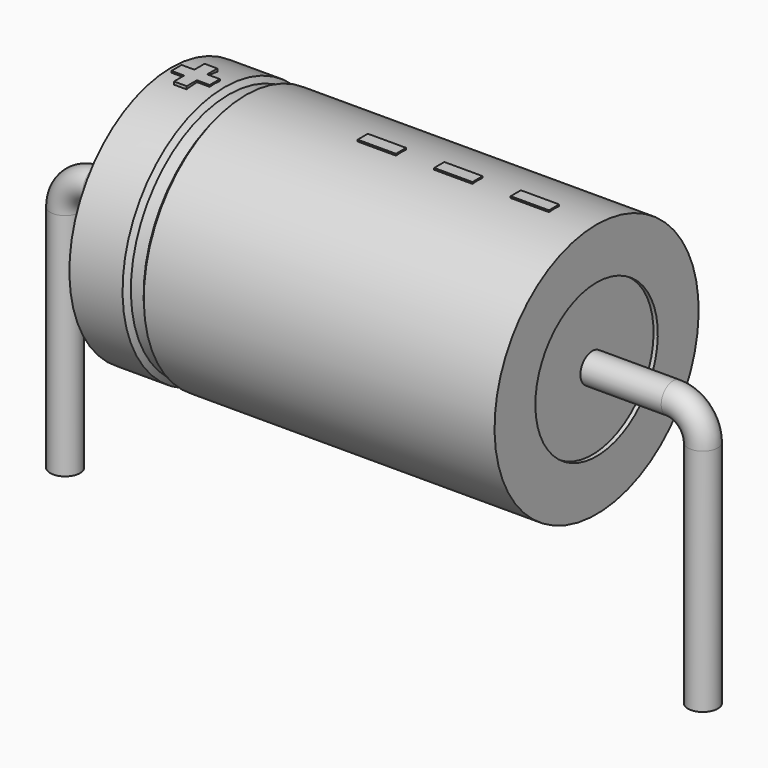
from build123d import *

# Parameters (mm, degrees)
SKETCH_R    = 0.35
SKETCH004_W = 0.9
SKETCH004_H = 0.3
PAD_DEPTH   = 3.03


with BuildPart() as sweep_body:
    # Sweep: sweep along a path in Sketch001
    with BuildLine(Plane.XZ) as sweep_path:
        Line((0, -3), (0, 2.4))
        ThreePointArc((0, 2.4), (0.205022, 2.894971), (0.699989, 3.1))
        Line((0.699989, 3.1), (14.3, 3.1))
        ThreePointArc((14.3, 3.1), (14.794975, 2.894975), (15, 2.4))
        Line((15, 2.4), (15, -3))
    # Sketch → Sweep (sweep)
    with BuildSketch(Plane.XY.offset(-2)):
        Circle(SKETCH_R)
    sweep(path=sweep_path.line)


with BuildPart() as revolution:
    # Sketch002 → Revolution (revolve)
    with BuildSketch(Plane.XZ):
        Polygon((2.5, 6.1), (2.5, 4.9), (12.5, 4.9), (12.5, 6.1), (4.25, 6.1), (4.15, 5.98), (3.85, 5.98), (3.75, 6.1), align=None)
    revolve(axis=Axis((6.97588, 0, 3.1), (1, 0, 0)))


with BuildPart() as revolution001:
    # Sketch003 → Revolution001 (revolve)
    with BuildSketch(Plane.XZ):
        Polygon((2.6, 5.98), (3.1, 5.98), (3.1, 3.4), (11.9, 3.4), (11.9, 5.98), (12.4, 5.98), (12.4, 3.1), (2.6, 3.1), align=None)
    revolve(axis=Axis((6.97588, 0, 3.1), (1, 0, 0)))


with BuildPart() as pad:
    # Sketch004 → Pad (new body)
    with BuildSketch(Plane.XY.offset(3.1)):
        with Locations((11.05, 0)):
            Rectangle(SKETCH004_W, SKETCH004_H)
        with Locations((9.25, 0)):
            Rectangle(SKETCH004_W, SKETCH004_H)
        with Locations((7.45, 0)):
            Rectangle(SKETCH004_W, SKETCH004_H)
        Polygon((2.92, 0.15), (2.62, 0.15), (2.62, -0.15), (2.92, -0.15), (2.92, -0.45), (3.22, -0.45), (3.22, -0.15), (3.52, -0.15), (3.52, 0.15), (3.22, 0.15), (3.22, 0.45), (2.92, 0.45), align=None)
    extrude(amount=PAD_DEPTH)


solid = Compound([sweep_body.part, revolution.part, revolution001.part, pad.part])
